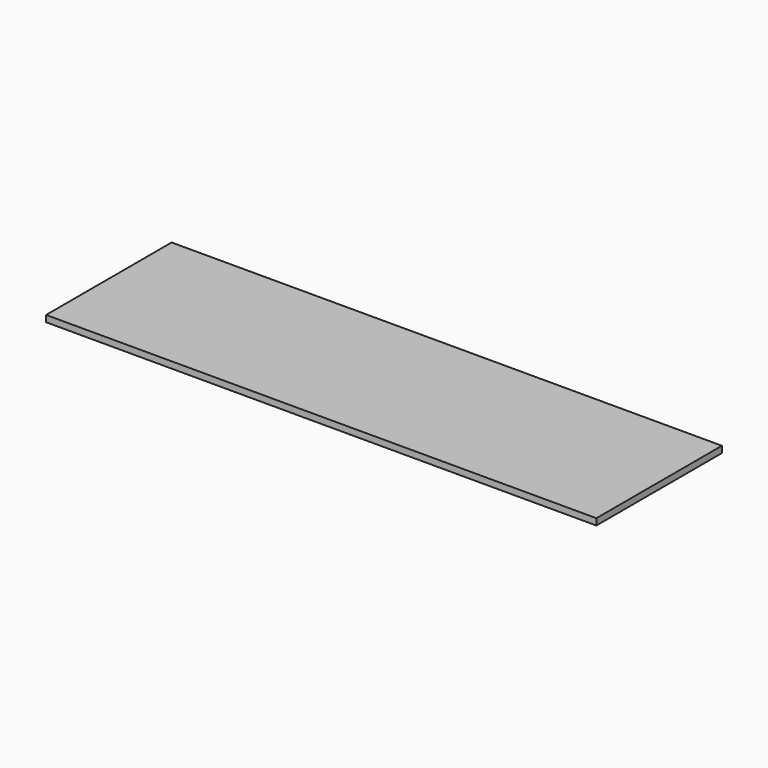
from build123d import *

# Parameters (mm, degrees)
F0_W     = 86.465255
F0_H     = 24.655377
F1_DEPTH = 1.016


with BuildPart() as f1:
    # F0 (on Top) → F1 (new body)
    with BuildSketch(Plane.XY):
        with Locations((4.767761, 0.306808)):
            Rectangle(F0_W, F0_H)
        with Locations((4.767761, 0.306808)):
            Rectangle(F0_W, F0_H)
        with Locations((4.767761, 0.306808)):
            Rectangle(F0_W, F0_H)
    extrude(amount=-F1_DEPTH)


solid = f1.part
